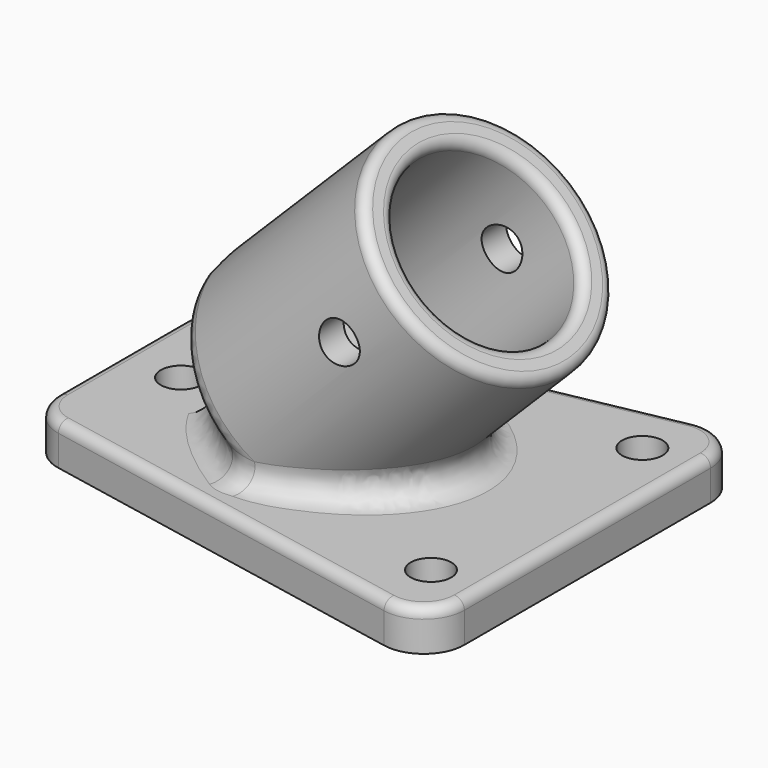
from build123d import *

# Parameters (mm, degrees)
PAD010_DEPTH    = 4
SKETCH056_R     = 2
POCKET030_DEPTH = 50
SKETCH057_R     = 6
POCKET031_DEPTH = 20
FILLET020_R     = 1
FILLET021_R     = 4
FILLET022_R     = 1
FILLET023_R     = 2
FILLET024_R     = 2
SKETCH058_R     = 2
POCKET032_DEPTH = 20


with BuildPart() as part:
    # Sketch054 → Revolution006 (revolve)
    with BuildSketch(Plane.XZ):
        Polygon((-215, 16.404877), (-198.029437, 33.37544), (-195.908117, 31.25412), (-210.050253, 17.111984), (-203.969134, 11.030866), (-215, 0), align=None)
    revolve(axis=Axis((0, 0, 215), (-0.707107, 0, -0.707107)))

    # Sketch055 → Pad010 (new body)
    with BuildSketch(Plane.XY):
        Polygon((-226, 11), (-226, -11), (-180, -20), (-180, 20), align=None)
    extrude(amount=PAD010_DEPTH)

    # Sketch056 → Pocket030 (cut)
    with BuildSketch(Plane.XY):
        with Locations((-220, 0)):
            Circle(SKETCH056_R)
        with Locations((-185, -13)):
            Circle(SKETCH056_R)
        with Locations((-185, 13)):
            Circle(SKETCH056_R)
    extrude(amount=POCKET030_DEPTH, mode=Mode.SUBTRACT)

    # Sketch057 → Pocket031 (cut)
    with BuildSketch(Plane.XY.offset(4)):
        with Locations((-220, 0)):
            Circle(SKETCH057_R)
    extrude(amount=POCKET031_DEPTH, mode=Mode.SUBTRACT)

    # Fillet020
    fillet020_edges = [part.edges().sort_by_distance(p)[0] for p in [
        (-181.62456, 0, 16.970563),
        (-183.74588, 0, 19.091883),
    ]]
    fillet(fillet020_edges, radius=FILLET020_R)

    # Fillet021
    fillet021_edges = [part.edges().sort_by_distance(p)[0] for p in [
        (-226, -11, 2),
        (-226, 11, 2),
        (-180, 20, 2),
        (-180, -20, 2),
    ]]
    fillet(fillet021_edges, radius=FILLET021_R)

    # Fillet022
    fillet022_edges = [part.edges().sort_by_distance(p)[0] for p in [
        (-203.768046, -15.34973, 4),
    ]]
    fillet(fillet022_edges, radius=FILLET022_R)

    # Fillet023
    fillet023_edges = [part.edges().sort_by_distance(p)[0] for p in [
        (-209.920437, 10.726383, 11.325315),
        (-209.920437, -10.726383, 11.325315),
        (-214.214923, -1.591502, 17.034823),
        (-214.214923, 1.591502, 17.034823),
    ]]
    fillet(fillet023_edges, radius=FILLET023_R)

    # Fillet024
    fillet024_edges = [part.edges().sort_by_distance(p)[0] for p in [
        (-209.467706, -6.652695, 4),
    ]]
    fillet(fillet024_edges, radius=FILLET024_R)

    # Sketch058 → Pocket032 (cut, symmetric)
    with BuildSketch(Plane.XZ):
        with Locations((-195.20101, 19.79899)):
            Circle(SKETCH058_R)
    extrude(amount=POCKET032_DEPTH, both=True, mode=Mode.SUBTRACT)


solid = part.part
